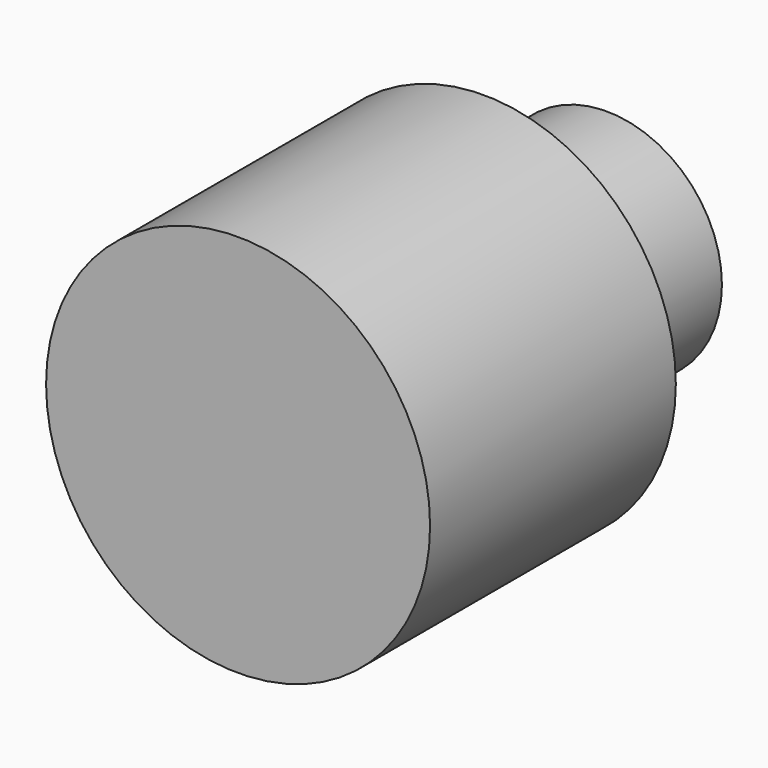
from build123d import *

# Parameters (mm, degrees)
F0_R          = 125
F1_DEPTH      = 200
F2_R          = 75
F3_DEPTH      = 25
F3_DEPTH_BACK = 100


with BuildPart() as f1:
    # F0 (on Front) → F1 (new body)
    with BuildSketch(Plane.XZ):
        Circle(F0_R)
        Circle(F0_R)
    extrude(amount=F1_DEPTH)

    # F2 (on Front) → F3 (join, two sides)
    with BuildSketch(Plane.XZ) as f3_sk:
        Circle(F2_R)
    extrude(amount=F3_DEPTH)
    extrude(f3_sk.sketch, amount=-F3_DEPTH_BACK)


solid = f1.part
